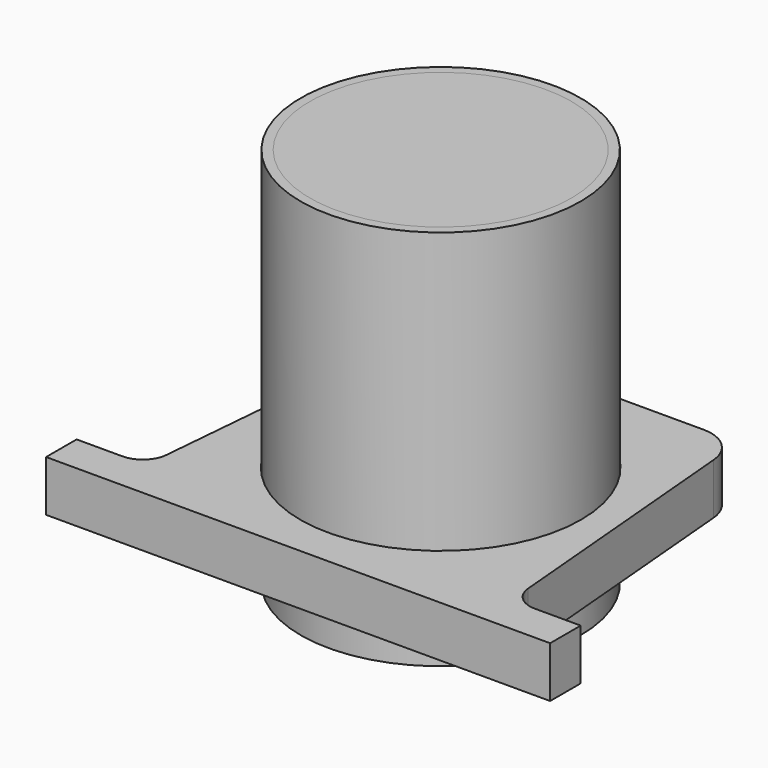
from build123d import *

# Parameters (mm, degrees)
CYLINDER_R         = 51.4
CYLINDER_DEPTH     = 8
CYLINDER001_R      = 55
CYLINDER001_DEPTH  = 5
SKETCH_R           = 2
POCKET_DEPTH       = 319.53912
POLARPATTERN_COUNT = 12
SKETCH001_R        = 3
POCKET001_DEPTH    = 8.001
CHAMFER_SIZE       = 1
CHAMFER002_SIZE    = 1
CHAMFER003_SIZE    = 1
CYLINDER002_R      = 51.4
CYLINDER002_DEPTH  = 30
CHAMFER001_SIZE    = 3
CHAMFER004_SIZE    = 2
FILLET_R           = 5
FILLET001_R        = 3
CYLINDER003_R      = 55
CYLINDER003_DEPTH  = 150
CYLINDER004_R      = 51.4
CYLINDER004_DEPTH  = 150
SKETCH002_R        = 55.18
PAD_DEPTH          = 20


with BuildPart() as bottom:
    # Cylinder → Cylinder (join)
    with BuildSketch(Plane.XY):
        Circle(CYLINDER_R)
    extrude(amount=CYLINDER_DEPTH)

    # Cylinder001 → Cylinder001 (join)
    with BuildSketch(Plane.XY):
        Circle(CYLINDER001_R)
    extrude(amount=CYLINDER001_DEPTH)

    # Sketch (on Face3 of Cylinder001) → Pocket (cut, through all)
    with BuildSketch(Plane.XY.offset(8)):
        with Locations((0, 44.2)):
            Circle(SKETCH_R)
        with Locations((0, 34.2)):
            Circle(SKETCH_R)
        with Locations((0, 24.2)):
            Circle(SKETCH_R)
    pocket = extrude(amount=-POCKET_DEPTH, mode=Mode.SUBTRACT)

    # PolarPattern: Pocket ×12 about axis
    polarpattern_axis = Axis((0, 0, 8), (0, 0, 1))
    for i in range(1, POLARPATTERN_COUNT):
        add(pocket.rotate(polarpattern_axis, i * 360 / POLARPATTERN_COUNT), mode=Mode.SUBTRACT)

    # Sketch001 (on Face3 of PolarPattern) → Pocket001 (cut, through all)
    with BuildSketch(Plane.XY.offset(8)):
        Circle(SKETCH001_R)
    extrude(amount=-POCKET001_DEPTH, mode=Mode.SUBTRACT)

    # Chamfer
    chamfer_edges = [bottom.edges().sort_by_distance(p)[0] for p in [
        (-23.832051, 37.278323, 8),
        (-18.832051, 28.618069, 8),
        (-13.832051, 19.957815, 8),
        (-3, 0, 8),
        (-21.957815, 10.367949, 8),
        (-30.618069, 15.367949, 8),
        (-39.278323, 20.367949, 8),
        (-44.2, -2, 8),
        (-34.2, -2, 8),
        (-24.2, -2, 8),
        (-19.957815, -13.832051, 8),
        (-28.618069, -18.832051, 8),
        (-37.278323, -23.832051, 8),
        (-10.367949, -21.957815, 8),
        (-15.367949, -30.618069, 8),
        (-20.367949, -39.278323, 8),
        (2, -44.2, 8),
        (2, -34.2, 8),
        (2, -24.2, 8),
        (13.832051, -19.957815, 8),
        (18.832051, -28.618069, 8),
        (23.832051, -37.278323, 8),
        (21.957815, -10.367949, 8),
        (30.618069, -15.367949, 8),
        (39.278323, -20.367949, 8),
        (24.2, 2, 8),
        (34.2, 2, 8),
        (44.2, 2, 8),
        (28.618069, 18.832051, 8),
        (19.957815, 13.832051, 8),
        (37.278323, 23.832051, 8),
        (10.367949, 21.957815, 8),
        (15.367949, 30.618069, 8),
        (-2, 44.2, 8),
        (-2, 34.2, 8),
        (-2, 24.2, 8),
        (20.367949, 39.278323, 8),
    ]]
    chamfer(chamfer_edges, length=CHAMFER_SIZE)

    # Chamfer002
    chamfer002_edges = [bottom.edges().sort_by_distance(p)[0] for p in [
        (-51.4, 0, 8),
    ]]
    chamfer(chamfer002_edges, length=CHAMFER002_SIZE)

    # Chamfer003
    chamfer003_edges = [bottom.edges().sort_by_distance(p)[0] for p in [
        (-55, 0, 5),
    ]]
    chamfer(chamfer003_edges, length=CHAMFER003_SIZE)


with BuildPart() as pusher:
    # Cylinder002 → Cylinder002 (join)
    with BuildSketch(Plane.XY):
        Circle(CYLINDER002_R)
    extrude(amount=CYLINDER002_DEPTH)

    # Chamfer001
    chamfer001_edges = [pusher.edges().sort_by_distance(p)[0] for p in [
        (-51.4, 0, 0),
    ]]
    chamfer(chamfer001_edges, length=CHAMFER001_SIZE)

    # Cone → Cone (revolve)
    with BuildSketch(Plane(origin=(0, 0, 30), x_dir=(-1, 0, 0), z_dir=(0, -1, 0))):
        Polygon((0, 0), (44.2, 0), (15, 80), (0, 80), align=None)
    revolve(axis=Axis((0, 0, 30), (0, 0, -1)))

    # Chamfer004
    chamfer004_edges = [pusher.edges().sort_by_distance(p)[0] for p in [
        (15, 0, -50),
    ]]
    chamfer(chamfer004_edges, length=CHAMFER004_SIZE)

    # Fillet
    fillet_edges = [pusher.edges().sort_by_distance(p)[0] for p in [
        (33.25, 0, 0),
    ]]
    fillet(fillet_edges, radius=FILLET_R)

    # Fillet001
    fillet001_edges = [pusher.edges().sort_by_distance(p)[0] for p in [
        (15.685748, 0, -48.121237),
    ]]
    fillet(fillet001_edges, radius=FILLET001_R)


with BuildPart() as pusher_1:
    # Body001 placement: moved
    add(pusher.part.moved(Location((0, 0, 120))))


with BuildPart() as tube:
    # Cylinder003 → Cylinder003 (join)
    with BuildSketch(Plane.XY):
        Circle(CYLINDER003_R)
    extrude(amount=CYLINDER003_DEPTH)

    # Cylinder004 → Cylinder004 (cut)
    with BuildSketch(Plane.XY):
        Circle(CYLINDER004_R)
    extrude(amount=CYLINDER004_DEPTH, mode=Mode.SUBTRACT)


with BuildPart() as tube_holder:
    # Sketch002 → Pad (new body)
    with BuildSketch(Plane.XY):
        with BuildLine():
            Line((-99, -55), (-81, -55))
            ThreePointArc((-81, -55), (-74.244098, -52.372773), (-71.038053, -45.871557))
            Line((-71.038053, -45.871557), (-62.08281, 56.487336))
            ThreePointArc((-47.13989, 70.18), (-57.273743, 66.23916), (-62.08281, 56.487336))
            Line((-47.13989, 70.18), (47.13989, 70.18))
            ThreePointArc((62.08281, 56.487336), (57.273743, 66.23916), (47.13989, 70.18))
            Line((62.08281, 56.487336), (71.038053, -45.871557))
            ThreePointArc((71.038053, -45.871557), (74.244098, -52.372773), (81, -55))
            Line((81, -55), (99, -55))
            Line((99, -55), (99, -70))
            Line((99, -70), (-99, -70))
            Line((-99, -70), (-99, -55))
        make_face()
        Circle(SKETCH002_R, mode=Mode.SUBTRACT)
    extrude(amount=PAD_DEPTH)


with BuildPart() as tube_holder_1:
    # Body003 placement: moved
    add(tube_holder.part.moved(Location((0, 0, 20))))


solid = Compound([bottom.part, pusher_1.part, tube.part, tube_holder_1.part])
